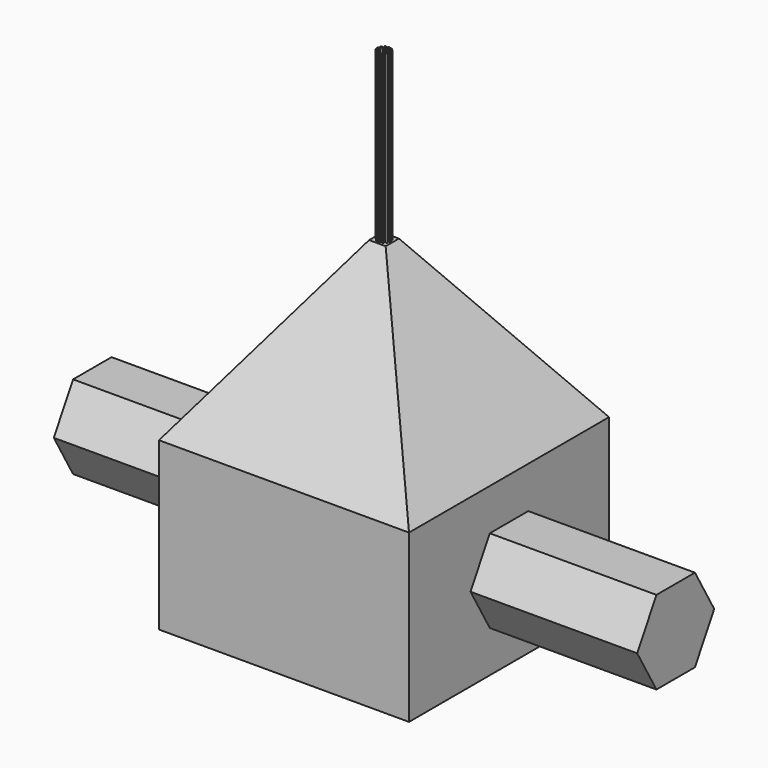
from build123d import *

# Parameters (mm, degrees)
F0_W      = 38.1
F0_H      = 38.1
F1_DEPTH  = 25.4
F1_TAPER  = 35
F2_DEPTH  = 25.4
F2_FACE_W = 38.1
F2_FACE_H = 38.1
F3_DEPTH  = 25.4
F3_TAPER  = 35
F7_DEPTH  = 25.4
F9_R      = 0.127
F10_DEPTH = 25.4


with BuildPart() as f1:
    # F0 (on Top) → F1 (new body)
    with BuildSketch(Plane.XY):
        Rectangle(F0_W, F0_H)
    extrude(amount=F1_DEPTH, taper=F1_TAPER)

    # F2 (add): a face of the model
    f2_faces = [f1.faces().sort_by_distance(p)[0] for p in [
        (0, 0, 0),
    ]]
    extrude(f2_faces, amount=F2_DEPTH)

    # F2_face (on face) → F3 (cut)
    with BuildSketch(Plane(origin=(0, 0, -25.4), x_dir=(1, 0, 0), z_dir=(0, 0, -1))):
        Rectangle(F2_FACE_W, F2_FACE_H)
    extrude(amount=-F3_DEPTH, taper=F3_TAPER, mode=Mode.SUBTRACT)

    # F6 (on face) → F7 (join)
    with BuildSketch(Plane(origin=(-19.05, 0, 0), x_dir=(0, -1, 0), z_dir=(-1, 0, 0))):
        Polygon((3.6661742094, -6.35), (-3.6661742094, -6.35), (-7.3323484187, -12.7), (-3.6661742094, -19.05), (3.6661742094, -19.05), (7.3323484187, -12.7), align=None)
    extrude(amount=F7_DEPTH)

    # F8: F1 across plane


with BuildPart() as f1_1:
    add(f1.part)
    add(f1.part.mirror(Plane.YZ))

    # F9 (on face) → F10 (join)
    with BuildSketch(Plane.XY.offset(25.4)):
        with Locations((0, 0.889)):
            Circle(F9_R)
        with Locations((-0.4445, 0.769896584)):
            Circle(F9_R)
        with Locations((-0.769896584, 0.4445)):
            Circle(F9_R)
        with Locations((-0.889, 0)):
            Circle(F9_R)
        with Locations((-0.769896584, -0.4445)):
            Circle(F9_R)
        with Locations((-0.4445, -0.769896584)):
            Circle(F9_R)
        with Locations((0, -0.889)):
            Circle(F9_R)
        with Locations((0.4445, -0.769896584)):
            Circle(F9_R)
        with Locations((0.769896584, -0.4445)):
            Circle(F9_R)
        with Locations((0.889, 0)):
            Circle(F9_R)
        with Locations((0.769896584, 0.4445)):
            Circle(F9_R)
        with Locations((0.4445, 0.769896584)):
            Circle(F9_R)
    extrude(amount=F10_DEPTH)


solid = f1_1.part
